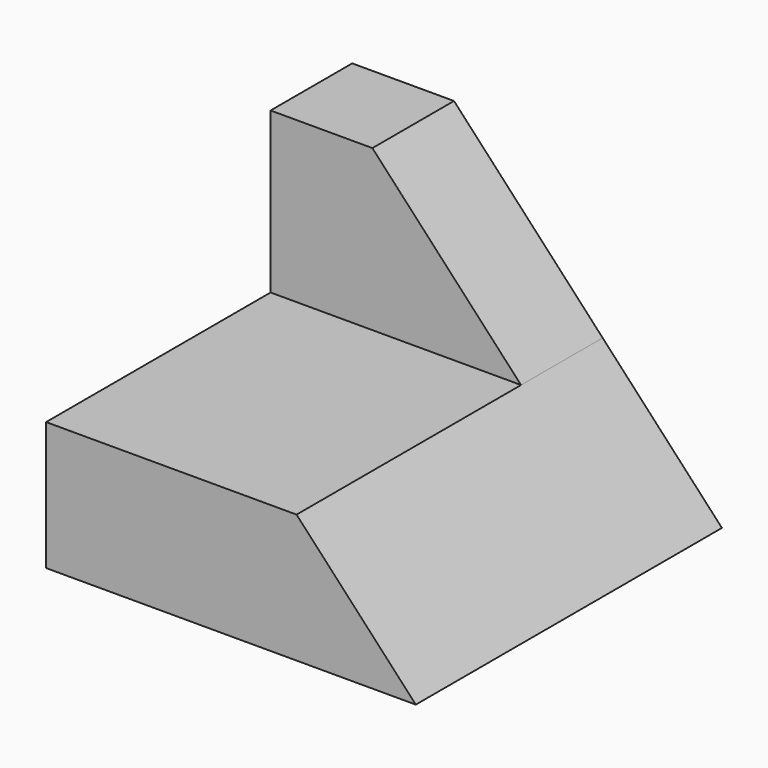
from build123d import *

# Parameters (mm, degrees)
F1_DEPTH = 110.49
F2_DEPTH = 29.464


with BuildPart() as f1:
    # F0 (on Front) → F1 (new body)
    with BuildSketch(Plane.XZ):
        Polygon((-58.561537, 7.711807), (-58.561537, -29.401265), (48.198789, -29.401265), (13.767299, 7.711807), align=None)
    extrude(amount=F1_DEPTH)

    # F0 (on Front) → F2 (join)
    with BuildSketch(Plane.XZ):
        Polygon((-58.561537, 7.711807), (-58.561537, -29.401265), (48.198789, -29.401265), (13.767299, 7.711807), align=None)
        Polygon((-58.561537, 53.982649), (-58.561537, 7.711807), (13.767299, 7.711807), (-29.160272, 53.982649), align=None)
    extrude(amount=F2_DEPTH)


solid = f1.part
